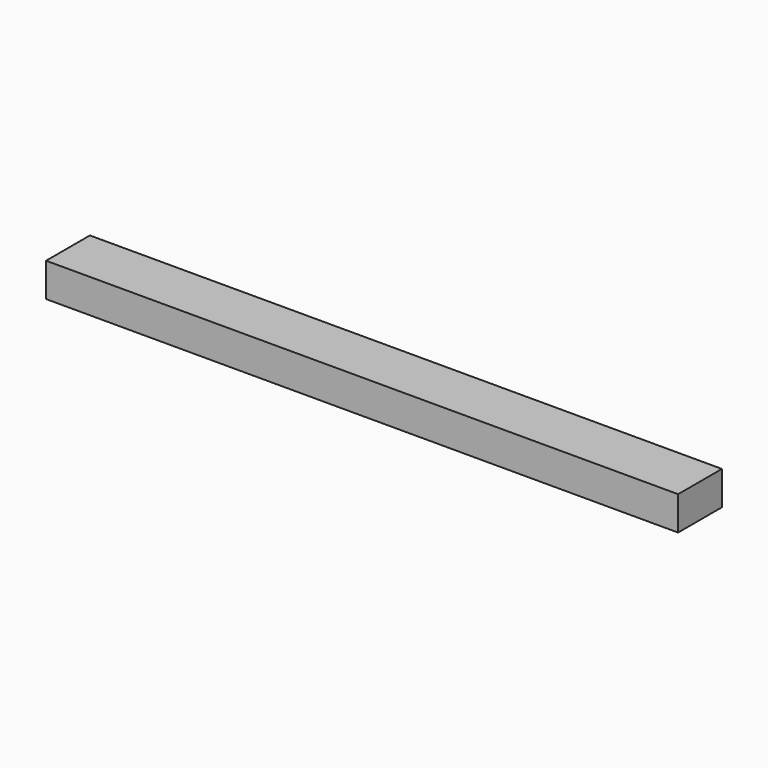
from build123d import *

# Parameters (mm, degrees)
F0_W     = 1010
F0_H     = 54
F1_DEPTH = 87.5
F2_W     = 926.366032
F2_H     = 26.809566
F3_DEPTH = 15


with BuildPart() as f1:
    # F0 (on Front) → F1 (new body)
    with BuildSketch(Plane.XZ):
        Rectangle(F0_W, F0_H)
    extrude(amount=F1_DEPTH)


with BuildPart() as f3:
    # F2 (on face) → F3 (new body)
    with BuildSketch(Plane(origin=(0, 0, 0), x_dir=(-1, 0, 0), z_dir=(0, 1, 0))):
        Rectangle(F2_W, F2_H)
    extrude(amount=F3_DEPTH)


solid = Compound([f1.part, f3.part])
